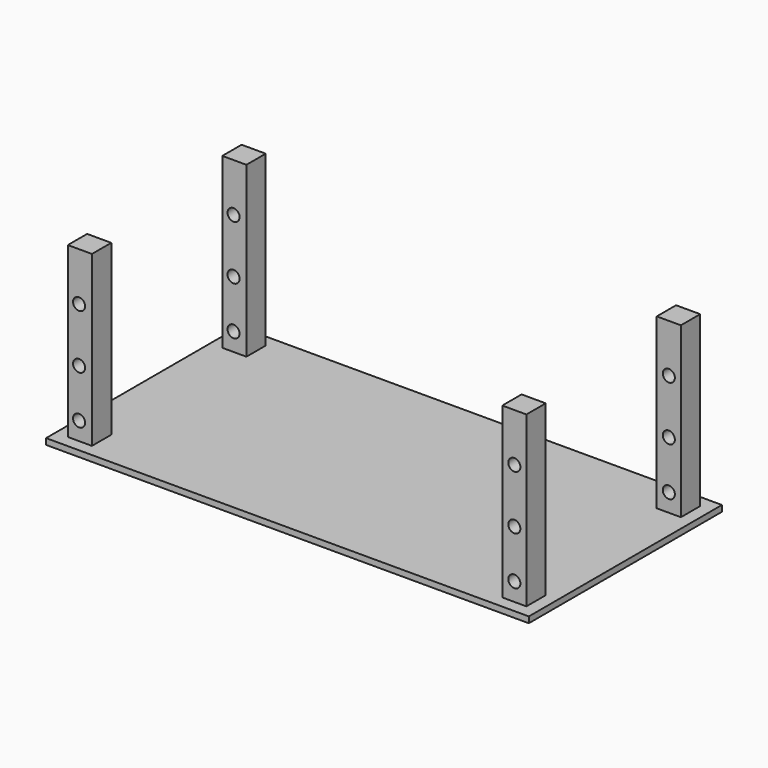
from build123d import *

# Parameters (mm, degrees)
F0_W     = 2000
F0_H     = 1000
F1_DEPTH = 25
F2_W     = 100
F2_H     = 100
F3_DEPTH = 725
F4_R     = 25
F5_DEPTH = 950.001


with BuildPart() as f1:
    # F0 (on Top) → F1 (new body)
    with BuildSketch(Plane.XY):
        with Locations((903.3, 468.924358)):
            Rectangle(F0_W, F0_H)
    extrude(amount=F1_DEPTH)

    # F2 (on Top) → F3 (join)
    with BuildSketch(Plane.XY):
        with Locations((3.3, 68.924358)):
            Rectangle(F2_W, F2_H)
        with Locations((1803.3, 68.924358)):
            Rectangle(F2_W, F2_H)
        with Locations((1803.3, 868.924358)):
            Rectangle(F2_W, F2_H)
        with Locations((3.3, 868.924358)):
            Rectangle(F2_W, F2_H)
    extrude(amount=F3_DEPTH)

    # F4 (on face) → F5 (cut, through all)
    with BuildSketch(Plane(origin=(0, 918.924358, 0), x_dir=(-1, 0, 0), z_dir=(0, 1, 0))):
        with Locations((0, 300)):
            Circle(F4_R)
        with Locations((0, 525)):
            Circle(F4_R)
        with Locations((0, 100)):
            Circle(F4_R)
        with Locations((-1803.3, 100)):
            Circle(F4_R)
        with Locations((-1803.3, 300)):
            Circle(F4_R)
        with Locations((-1803.3, 525)):
            Circle(F4_R)
    extrude(amount=-F5_DEPTH, mode=Mode.SUBTRACT)


solid = f1.part
